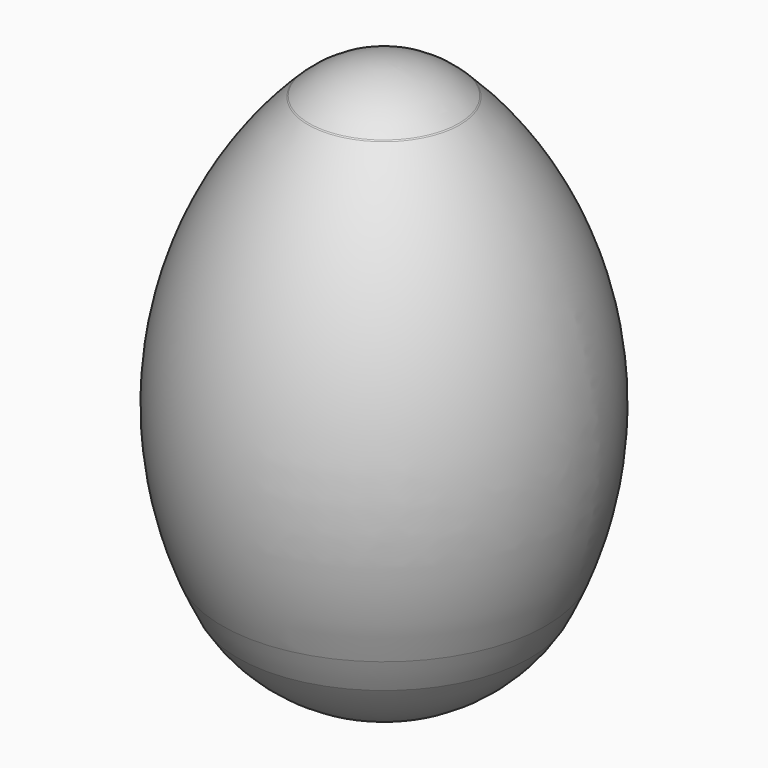
from build123d import *


with BuildPart() as f1:
    # F0 (on Front) → F1 (revolve)
    with BuildSketch(Plane.XZ):
        with BuildLine():
            ThreePointArc((11.2773784867, 11.2773784867), (7.9743108029, 3.3030676857), (2.8e-09, 0))
            ThreePointArc((2.8e-09, 0), (12.5814954602, -5.2114260551), (17.7929215133, -17.7929215133))
            ThreePointArc((17.7929215133, -17.7929215133), (17.5491229084, -20.7282819892), (16.8244081506, -23.5832018485))
            ThreePointArc((16.8244081506, -23.5832018485), (18.9444212028, -0.7505779504), (7.886943751, 19.3381094586))
            ThreePointArc((7.886943751, 19.3381094586), (10.3952709276, 15.6497471668), (11.2773784867, 11.2773784867))
        make_face()
        with BuildLine():
            Line((0, 22.5547569734), (0, 0))
            ThreePointArc((2.8e-09, 0), (7.9743108029, 3.3030676857), (11.2773784867, 11.2773784867))
            ThreePointArc((11.2773784867, 11.2773784867), (10.3952709276, 15.6497471668), (7.886943751, 19.3381094586))
            ThreePointArc((7.886943751, 19.3381094586), (7.8326939111, 19.3905849682), (7.7783427863, 19.4429555655))
            ThreePointArc((7.7783427863, 19.4429555655), (4.1888520057, 21.747946017), (0, 22.5547569734))
        make_face()
        with BuildLine():
            Line((0, -25.4766430266), (0, -35.5858430266))
            ThreePointArc((0, -35.5858430266), (8.7086460846, -33.3089628691), (15.1884796097, -27.0610466272))
            ThreePointArc((15.1884796097, -27.0610466272), (16.0492403428, -25.342255083), (16.8244081506, -23.5832018485))
            ThreePointArc((16.8244081506, -23.5832018485), (17.5491229084, -20.7282819892), (17.7929215133, -17.7929215133))
            ThreePointArc((17.7929215133, -17.7929215133), (12.5814954602, -5.2114260551), (2.8e-09, 0))
            Line((0, 0), (0, -25.4766430266))
        make_face()
    revolve(axis=Axis((0, 0, -1.4609430266), (0, 0, -1)))


solid = f1.part
